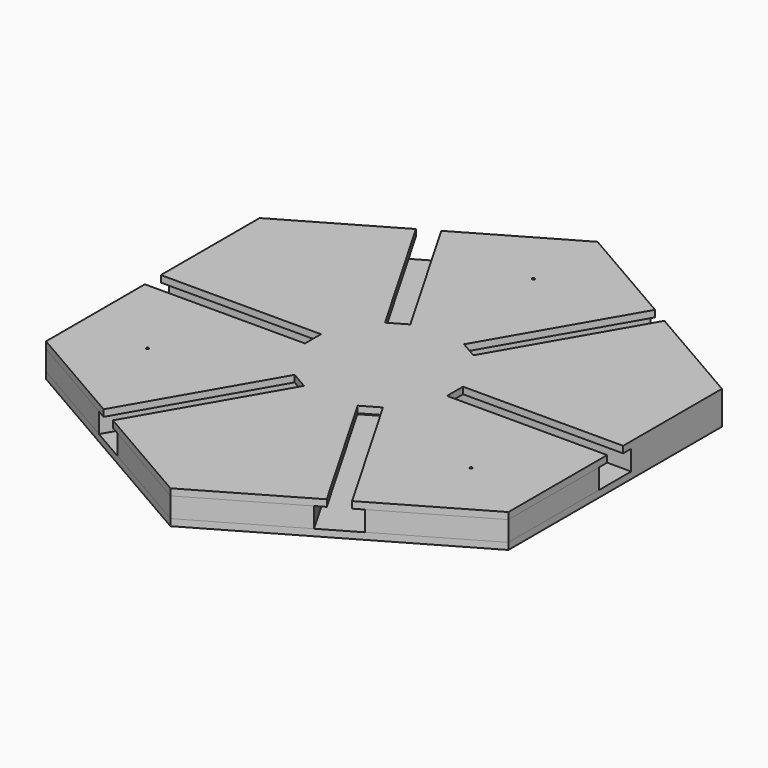
from build123d import *

# Parameters (mm, degrees)
PAD_DEPTH          = 5
PAD001_DEPTH       = 15
PAD003_DEPTH       = 15
POLARPATTERN_COUNT = 6
PAD002_DEPTH       = 5
SKETCH004_R        = 1
POCKET_DEPTH       = 3
SKETCH005_R        = 7.5
POCKET001_DEPTH    = 3


with BuildPart() as part:
    # Sketch → Pad (new body)
    with BuildSketch(Plane.XY):
        Polygon((173.205081, -100), (173.205081, 100), (0, 200), (-173.205081, 100), (-173.205081, -100), (0, -200), align=None)
    extrude(amount=PAD_DEPTH)

    # Sketch001 (on Face8 of Pad) → Pad001 (join)
    with BuildSketch(Plane.XY.offset(5)):
        Polygon((25.980762, -15), (25.980762, 15), (0, 30), (-25.980762, 15), (-25.980762, -15), (0, -30), align=None)
    extrude(amount=PAD001_DEPTH)

    # Sketch003 (on Face5 of Pad001) → Pad003 (join)
    with BuildSketch(Plane.XY.offset(5)):
        Polygon((173.205081, 15), (25.980762, 15), (99.592921, 142.5), (173.205081, 100), align=None)
    pad003 = extrude(amount=PAD003_DEPTH)

    # PolarPattern: Pad003 ×6 about axis
    polarpattern_axis = Axis((0, 0, 5), (0, 0, 1))
    for i in range(1, POLARPATTERN_COUNT):
        add(pad003.rotate(polarpattern_axis, i * 360 / POLARPATTERN_COUNT))

    # Sketch002 (on Face15 of Pad001) → Pad002 (join)
    with BuildSketch(Plane.XY.offset(20)):
        Polygon((0, 200), (80.10735, 153.75), (20.10735, 49.826952), (33.097731, 42.326952), (93.097731, 146.25), (173.205081, 100), (173.205081, 7.5), (53.205081, 7.5), (53.205081, -7.5), (173.205081, -7.5), (173.205081, -100), (93.097731, -146.25), (33.097731, -42.326952), (20.10735, -49.826952), (80.10735, -153.75), (0, -200), (-80.10735, -153.75), (-20.10735, -49.826952), (-33.097731, -42.326952), (-93.097731, -146.25), (-173.205081, -100), (-173.205081, -7.5), (-53.205081, -7.5), (-53.205081, 7.5), (-173.205081, 7.5), (-173.205081, 100), (-93.097731, 146.25), (-33.097731, 42.326952), (-20.10735, 49.826952), (-80.10735, 153.75), align=None)
    extrude(amount=PAD002_DEPTH)

    # Sketch004 (on Face43 of Pad002) → Pocket (cut)
    with BuildSketch(Plane.XY.offset(25)):
        with Locations((0, 140)):
            Circle(SKETCH004_R)
        with Locations((121.243557, -70)):
            Circle(SKETCH004_R)
        with Locations((-121.243557, -70)):
            Circle(SKETCH004_R)
    extrude(amount=-POCKET_DEPTH, mode=Mode.SUBTRACT)

    # Sketch005 (on Face4 of Pocket) → Pocket001 (cut)
    with BuildSketch(Plane(origin=(0, 0, 0), x_dir=(1, 0, 0), z_dir=(0, 0, -1))):
        Circle(SKETCH005_R)
    extrude(amount=-POCKET001_DEPTH, mode=Mode.SUBTRACT)


solid = part.part
